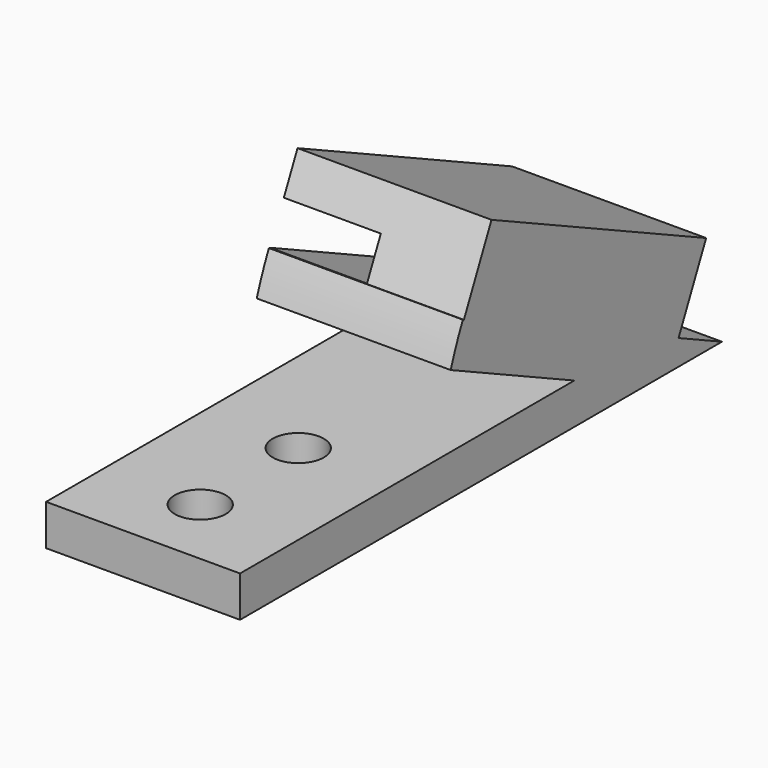
from build123d import *

# Parameters (mm, degrees)
CYLINDER019_R          = 2.5
CYLINDER019_DEPTH      = 10
CYLINDER016_R          = 2.5
CYLINDER016_DEPTH      = 10
CYLINDER017_W          = 35
CYLINDER017_H          = 19
CYLINDER017_ANGLE      = 25
CYLINDER018_W          = 35
CYLINDER018_H          = 19
CYLINDER018_ANGLE      = 25
BOX028_W               = 19
BOX028_H               = 50
BOX028_DEPTH           = 4
BOX003_W               = 140
BOX003_H               = 162
BOX003_DEPTH           = 4
BOX003_ROLL_ANGLE      = 25.000043
BOX003_PLACEMENT_ANGLE = 180
BOX032_W               = 19
BOX032_H               = 29
BOX032_DEPTH           = 8
BOX032_PLACEMENT_ANGLE = 25


with BuildPart() as m4s003:
    # Cylinder019 → Cylinder019 (new body)
    with BuildSketch(Plane(origin=(177.5, 240.5, 0), x_dir=(1, 0, 0), z_dir=(0, 0, 1))):
        Circle(CYLINDER019_R)
    extrude(amount=CYLINDER019_DEPTH)


with BuildPart() as m4lowcut001:
    # Cylinder016 → Cylinder016 (new body)
    with BuildSketch(Plane(origin=(177.5, 252.5, 0), x_dir=(1, 0, 0), z_dir=(0, 0, 1))):
        Circle(CYLINDER016_R)
    extrude(amount=CYLINDER016_DEPTH)

    # Fusion010: union m4s003
    add(m4s003.part)


with BuildPart() as cylinder017:
    # Cylinder017 → Cylinder017 (revolve)
    with BuildSketch(Plane(origin=(187, 283, 4), x_dir=(0, -1, 0), z_dir=(0, 0, -1))):
        with Locations((17.5, 9.5)):
            Rectangle(CYLINDER017_W, CYLINDER017_H)
    revolve(axis=Axis((187, 283, 4), (-1, 0, 0)), revolution_arc=CYLINDER017_ANGLE)


with BuildPart() as bottom002:
    # Cylinder018 → Cylinder018 (revolve)
    with BuildSketch(Plane(origin=(187, 292.5, 4), x_dir=(0, -1, 0), z_dir=(0, 0, -1))):
        with Locations((17.5, 9.5)):
            Rectangle(CYLINDER018_W, CYLINDER018_H)
    revolve(axis=Axis((187, 292.5, 4), (-1, 0, 0)), revolution_arc=CYLINDER018_ANGLE)

    # Cut016: cut Cylinder017
    add(cylinder017.part, mode=Mode.SUBTRACT)


with BuildPart() as bottomright:
    # Box028 → Box028 (new body)
    with BuildSketch(Plane(origin=(168, 233.5, 4), x_dir=(1, 0, 0), z_dir=(0, 0, 1))):
        with Locations((9.5, 25)):
            Rectangle(BOX028_W, BOX028_H)
    extrude(amount=BOX028_DEPTH)

    # Fusion009: union bottom002
    add(bottom002.part)

    # Cut017: cut m4lowCut001
    add(m4lowcut001.part, mode=Mode.SUBTRACT)


with BuildPart() as bottomright_1:
    # Cut017 placement: moved
    add(bottomright.part.moved(Location((144, 0, 0))))


with BuildPart() as solar_panel002:
    # Box003 → Box003 (new body)
    with BuildSketch(Plane.XY):
        with Locations((70, 81)):
            Rectangle(BOX003_W, BOX003_H)
    extrude(amount=BOX003_DEPTH)


with BuildPart() as solar_panel002_1:
    # Box003 roll: moved
    add(solar_panel002.part.rotate(Axis((0, 0, 0), (1, 0, 0)), BOX003_ROLL_ANGLE))


with BuildPart() as solar_panel002_2:
    # Box003 placement: moved
    add(solar_panel002_1.part.moved(Location((321.5, 284, 8))).rotate(Axis((321.5, 284, 8), (0, 0, 1)), BOX003_PLACEMENT_ANGLE))


with BuildPart() as topright001:
    # Box032 → Box032 (new body)
    with BuildSketch(Plane.XY):
        with Locations((9.5, 14.5)):
            Rectangle(BOX032_W, BOX032_H)
    extrude(amount=BOX032_DEPTH)


with BuildPart() as topright001_1:
    # Box032 placement: moved
    add(topright001.part.moved(Location((312, 260.906, 18.73))).rotate(Axis((312, 260.906, 18.73), (-1, 0, 0)), BOX032_PLACEMENT_ANGLE))

    # Cut024: cut solar Panel002
    add(solar_panel002_2.part, mode=Mode.SUBTRACT)

    # Fusion028: union bottomRight
    add(bottomright_1.part)


solid = topright001_1.part
